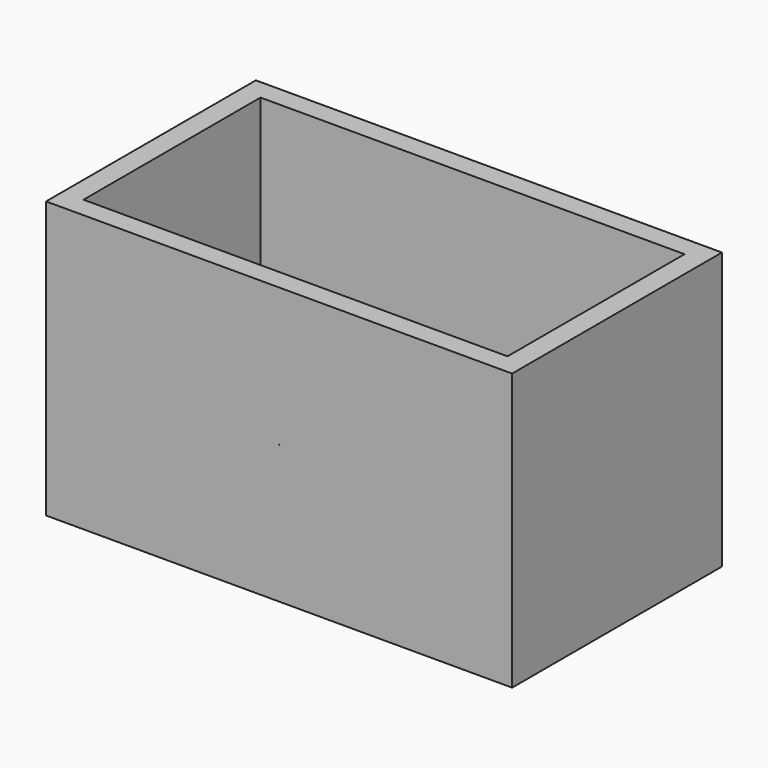
from build123d import *

# Parameters (mm, degrees)
F0_W     = 115
F0_H     = 60
F2_DEPTH = 5
F1_W     = 126.404688
F1_H     = 71.120002
F1_W_2   = 115
F1_H_2   = 60
F3_DEPTH = 75
F4_R     = 0.08
F5_DEPTH = 7.5438


with BuildPart() as f2:
    # F0 (on Top) → F2 (new body)
    with BuildSketch(Plane.XY):
        Rectangle(F0_W, F0_H)
    extrude(amount=F2_DEPTH)

    # F1 (on face) → F3 (join)
    with BuildSketch(Plane.XY):
        Rectangle(F1_W, F1_H)
        Rectangle(F1_W_2, F1_H_2, mode=Mode.SUBTRACT)
    extrude(amount=F3_DEPTH)

    # F4 (on face) → F5 (cut)
    with BuildSketch(Plane.XZ.offset(35.560001)):
        with Locations((0, 37.5)):
            Circle(F4_R)
    extrude(amount=-F5_DEPTH, mode=Mode.SUBTRACT)


solid = f2.part
